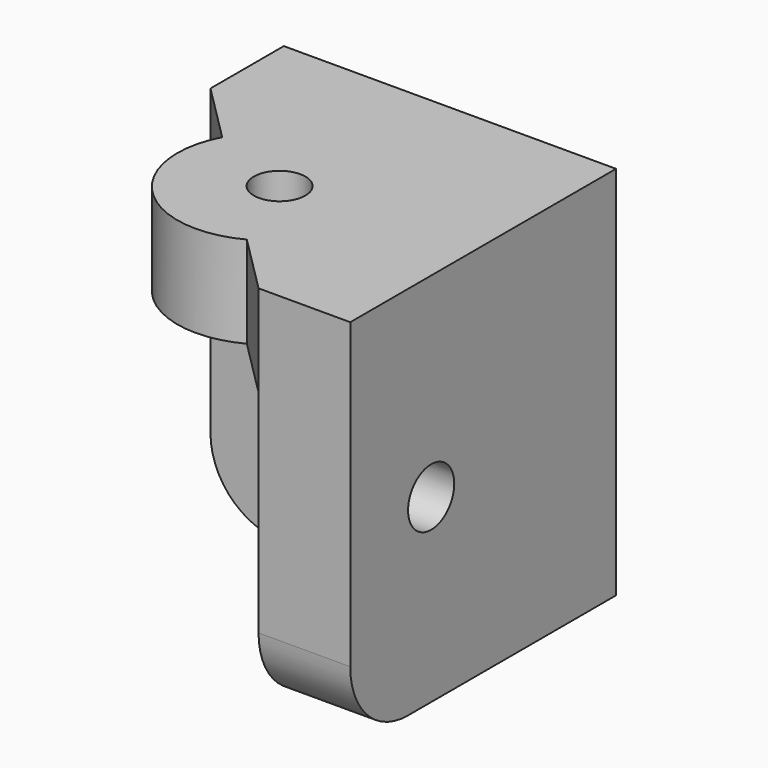
from build123d import *

# Parameters (mm, degrees)
F0_W     = 33.3
F0_H     = 12.7
F1_DEPTH = 52
F3_DEPTH = 12.7
F4_R     = 4
F5_DEPTH = 46.001
F6_R     = 3.571875
F7_DEPTH = 25
F8_R     = 3.571875
F9_DEPTH = 25
F10_R    = 10


with BuildPart() as f1:
    # F0 (on Top) → F1 (new body)
    with BuildSketch(Plane.XY):
        with Locations((16.65, -6.35)):
            Rectangle(F0_W, F0_H)
        Polygon((46, 0), (33.3, 0), (33.3, -12.7), (33.3, -46), (46, -46), align=None)
    extrude(amount=F1_DEPTH)

    # F2 (on face) → F3 (join)
    with BuildSketch(Plane.XY.offset(52)):
        Polygon((46, -46), (46, 0), (0, 0), (0, -12.7), (8.125442, -20.825442), (25.174558, -37.874558), (33.3, -46), align=None)
        with BuildLine():
            Line((25.174558, -37.874558), (8.125442, -20.825442))
            ThreePointArc((8.125442, -20.825442), (10.344245, -35.655755), (25.174558, -37.874558))
        make_face()
    extrude(amount=-F3_DEPTH)

    # F4 (on face) → F5 (cut, through all)
    with BuildSketch(Plane.YZ.offset(46)):
        with Locations((-32, 25)):
            Circle(F4_R)
    extrude(amount=-F5_DEPTH, mode=Mode.SUBTRACT)

    # F6 (on face) → F7 (cut)
    with BuildSketch(Plane(origin=(0, 0, 0), x_dir=(-1, 0, 0), z_dir=(0, 1, 0))):
        with Locations((-13, 25.4)):
            Circle(F6_R)
    extrude(amount=-F7_DEPTH, mode=Mode.SUBTRACT)

    # F8 (on face) → F9 (cut)
    with BuildSketch(Plane.XY.offset(52)):
        with Locations((20.119892, -25.880108)):
            Circle(F8_R)
    extrude(amount=-F9_DEPTH, mode=Mode.SUBTRACT)

    # F10
    f10_edges = [f1.edges().sort_by_distance(p)[0] for p in [
        (39.65, -46, 0),
        (0, -6.35, 0),
    ]]
    fillet(f10_edges, radius=F10_R)


solid = f1.part
